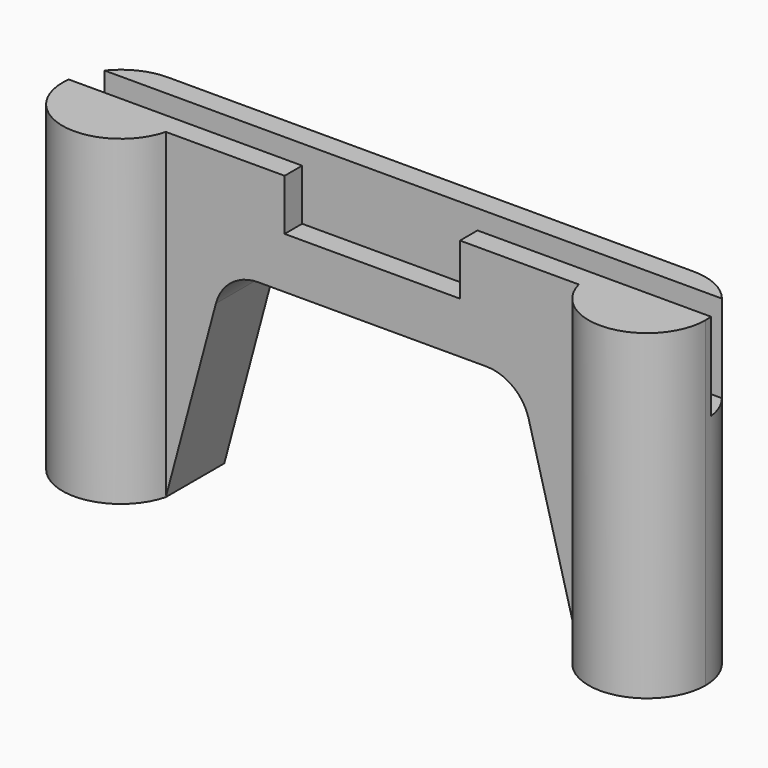
from build123d import *

# Parameters (mm, degrees)
F1_DEPTH = 22
F2_W     = 44
F2_H     = 2
F3_DEPTH = 6
F5_DEPTH = 5
F6_W     = 12
F6_H     = 3.5
F7_DEPTH = 3.5
F8_R     = 3


with BuildPart() as f1:
    # F0 (on Top) → F1 (new body)
    with BuildSketch(Plane.XY):
        with BuildLine():
            ThreePointArc((3.872983, -1), (3.968119, -0.504017), (4, 0))
            ThreePointArc((4, 0), (2.828427, 2.828427), (0, 4))
            ThreePointArc((0, 4), (-3.162278, -2.44949), (3.872983, -1))
        make_face()
        with BuildLine():
            ThreePointArc((0, 4), (2.828427, 2.828427), (4, 0))
            ThreePointArc((4, 0), (3.968119, -0.504017), (3.872983, -1))
            Line((3.872983, -1), (32.127017, -1))
            ThreePointArc((32.127017, -1), (32.837722, 2.44949), (36, 4))
            Line((36, 4), (0, 4))
        make_face()
        with BuildLine():
            ThreePointArc((40, 0), (38.828427, 2.828427), (36, 4))
            ThreePointArc((36, 4), (32.837722, 2.44949), (32.127017, -1))
            ThreePointArc((32.127017, -1), (36.504017, -3.968119), (40, 0))
        make_face()
    extrude(amount=F1_DEPTH)

    # F2 (on face) → F3 (cut)
    with BuildSketch(Plane.XY.offset(22)):
        with Locations((18, 1.5)):
            Rectangle(F2_W, F2_H)
    extrude(amount=-F3_DEPTH, mode=Mode.SUBTRACT)

    # F4 (on face) → F5 (cut, through all)
    with BuildSketch(Plane.XZ.offset(1)):
        Polygon((7.892221, 15), (3.872983, 0), (32.127017, 0), (28.107779, 15), (18, 15), align=None)
    extrude(amount=-F5_DEPTH, mode=Mode.SUBTRACT)

    # F6 (on face) → F7 (cut)
    with BuildSketch(Plane.XZ.offset(1)):
        with Locations((18, 20.25)):
            Rectangle(F6_W, F6_H)
    extrude(amount=-F7_DEPTH, mode=Mode.SUBTRACT)

    # F8
    f8_edges = [f1.edges().sort_by_distance(p)[0] for p in [
        (7.892221, 1.5, 15),
        (28.107779, 1.5, 15),
    ]]
    fillet(f8_edges, radius=F8_R)


solid = f1.part
